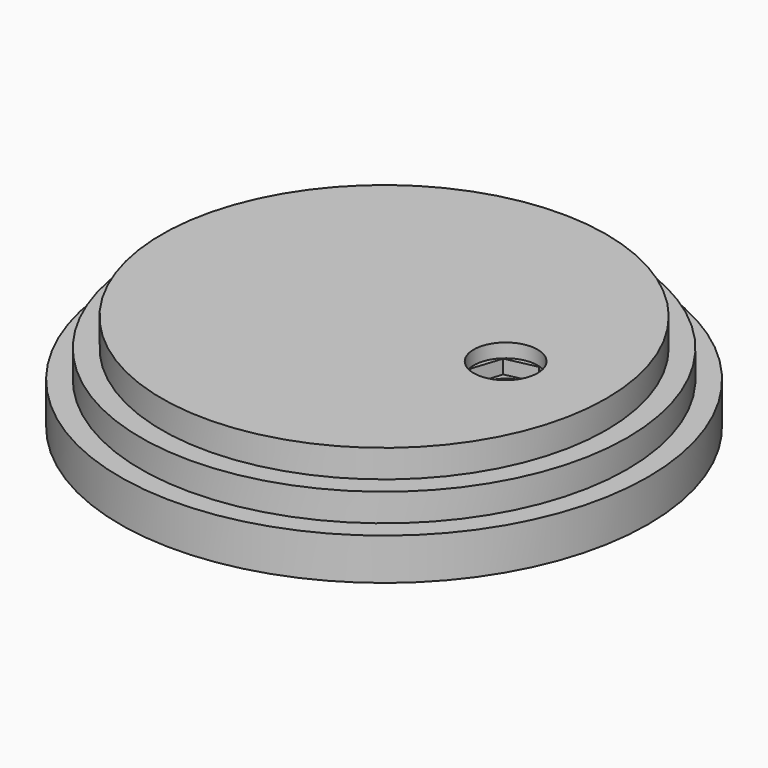
from build123d import *

# Parameters (mm, degrees)
F2_R     = 1.75
F3_DEPTH = 7
F4_R     = 1.75
F5_DEPTH = 2
F6_R     = 2.3
F7_DEPTH = 1


with BuildPart() as f1:
    # F0 (on Front) → F1 (revolve)
    with BuildSketch(Plane.XZ):
        Polygon((0, 8), (0, 0), (17, 0), (17, 1), (19, 1), (19, 4), (17.5, 4), (17.5, 6), (16, 6), (16, 8), align=None)
    revolve(axis=Axis((0, 0, 4), (0, 0, 1)))

    # F2 (on face) → F3 (cut)
    with BuildSketch(Plane.XY.offset(8)):
        with Locations((8.75, 0)):
            Circle(F2_R)
    extrude(amount=-F3_DEPTH, mode=Mode.SUBTRACT)

    # F4 (on face) → F5 (cut)
    with BuildSketch(Plane.XY.offset(8)):
        with Locations((8.75, 0)):
            Circle(F4_R)
        Polygon((10.258503366, -1.66940636), (10.95, 0.4716990566), (9.441496634, 2.1411054166), (7.241496634, 1.66940636), (6.55, -0.4716990566), (8.058503366, -2.1411054166), align=None)
    extrude(amount=-F5_DEPTH, mode=Mode.SUBTRACT)

    # F6 (on face) → F7 (cut)
    with BuildSketch(Plane.XY.offset(8)):
        with Locations((8.75, 0)):
            Circle(F6_R)
    extrude(amount=-F7_DEPTH, mode=Mode.SUBTRACT)


solid = f1.part
